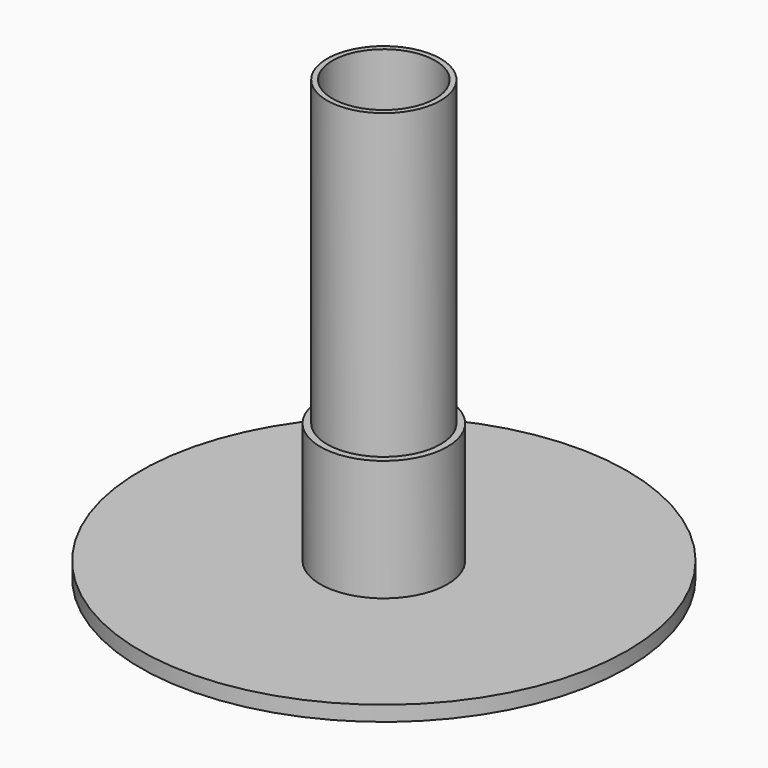
from build123d import *

# Parameters (mm, degrees)
SKETCH019_R     = 80.456645
PAD008_DEPTH    = 5
SKETCH020_R     = 21
PAD009_DEPTH    = 40
SKETCH021_R     = 18.75
PAD010_DEPTH    = 100
SKETCH022_R     = 17
POCKET011_DEPTH = 145.001


with BuildPart() as part:
    # Sketch019 → Pad008 (new body)
    with BuildSketch(Plane.XY):
        Circle(SKETCH019_R)
    extrude(amount=PAD008_DEPTH)

    # Sketch020 (on Face3 of Pad008) → Pad009 (join)
    with BuildSketch(Plane.XY.offset(5)):
        Circle(SKETCH020_R)
    extrude(amount=PAD009_DEPTH)

    # Sketch021 (on Face5 of Pad009) → Pad010 (join)
    with BuildSketch(Plane.XY.offset(45)):
        Circle(SKETCH021_R)
    extrude(amount=PAD010_DEPTH)

    # Sketch022 (on Face7 of Pad010) → Pocket011 (cut, through all)
    with BuildSketch(Plane.XY.offset(145)):
        Circle(SKETCH022_R)
    extrude(amount=-POCKET011_DEPTH, mode=Mode.SUBTRACT)


solid = part.part
